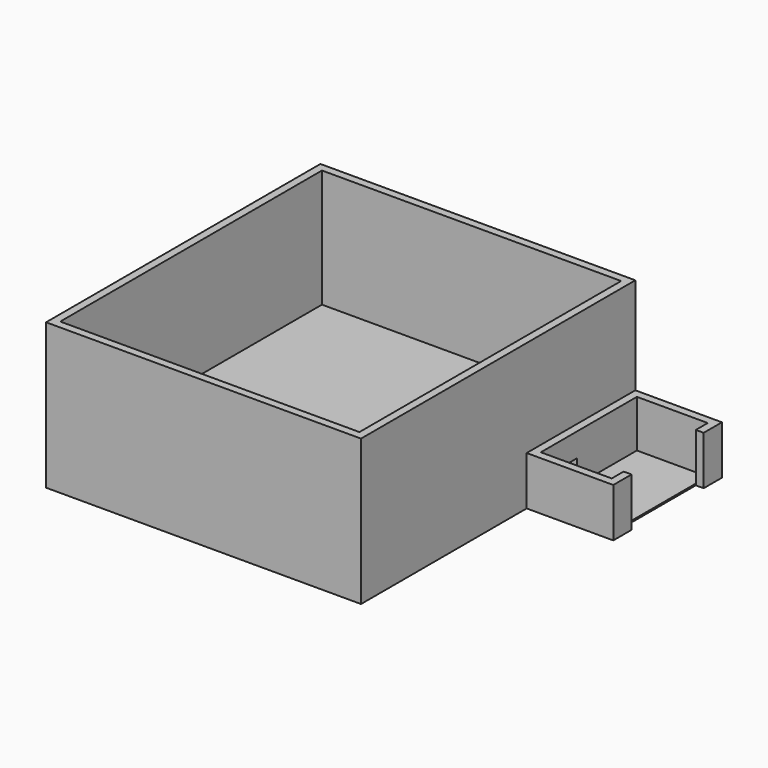
from build123d import *

# Parameters (mm, degrees)
F0_W      = 80
F0_H      = 87.1
F1_DEPTH  = 37
F2_W      = 76
F2_H      = 83.1
F3_DEPTH  = 30
F5_D      = 3.5
F6_W      = 34.5
F6_H      = 12.4
F7_DEPTH  = 22
F8_W      = 18
F8_H      = 30.5
F9_DEPTH  = 12
F10_W     = 11.415408
F10_H     = 6
F11_DEPTH = 4.60036
F12_W     = 34.5
F12_H     = 12.4
F13_DEPTH = 22
F14_W     = 18
F14_H     = 30.5
F15_DEPTH = 12
F16_W     = 11.5
F16_H     = 6
F17_DEPTH = 5
F19_W     = 22.9
F19_H     = 12.4
F20_DEPTH = 2
F18_W     = 22.9
F18_H     = 12.4
F21_DEPTH = 2


with BuildPart() as f1:
    # F0 (on Top) → F1 (new body)
    with BuildSketch(Plane.XY):
        Rectangle(F0_W, F0_H)
    extrude(amount=F1_DEPTH)

    # F2 (on face) → F3 (cut)
    with BuildSketch(Plane.XY.offset(37)):
        Rectangle(F2_W, F2_H)
    extrude(amount=-F3_DEPTH, mode=Mode.SUBTRACT)

    # F5 (through all)
    with Locations(Plane(origin=(0, 0, 0), x_dir=(1, 0, 0), z_dir=(0, 0, -1))):
        with Locations((-8.05, 30.2), (8.05, 30.2)):
            Hole(F5_D / 2)

    # F6 (on face) → F7 (join)
    with BuildSketch(Plane(origin=(-40, 0, 0), x_dir=(0, -1, 0), z_dir=(-1, 0, 0))):
        with Locations((-26.3, 6.2)):
            Rectangle(F6_W, F6_H)
    extrude(amount=F7_DEPTH)

    # F8 (on face) → F9 (cut)
    with BuildSketch(Plane.XY.offset(12.4)):
        with Locations((-51, 26.3)):
            Rectangle(F8_W, F8_H)
    extrude(amount=-F9_DEPTH, mode=Mode.SUBTRACT)

    # F10 (on face) → F11 (cut)
    with BuildSketch(Plane(origin=(-42, 0, 0), x_dir=(0, -1, 0), z_dir=(-1, 0, 0))):
        with Locations((-16.757704, 3.4)):
            Rectangle(F10_W, F10_H)
    extrude(amount=-F11_DEPTH, mode=Mode.SUBTRACT)

    # F12 (on face) → F13 (join)
    with BuildSketch(Plane.YZ.offset(40)):
        with Locations((26.3, 6.2)):
            Rectangle(F12_W, F12_H)
    extrude(amount=F13_DEPTH)

    # F14 (on face) → F15 (cut)
    with BuildSketch(Plane.XY.offset(12.4)):
        with Locations((51, 26.3)):
            Rectangle(F14_W, F14_H)
    extrude(amount=-F15_DEPTH, mode=Mode.SUBTRACT)

    # F16 (on face) → F17 (cut)
    with BuildSketch(Plane.YZ.offset(42)):
        with Locations((16.8, 3.4)):
            Rectangle(F16_W, F16_H)
    extrude(amount=-F17_DEPTH, mode=Mode.SUBTRACT)

    # F19 (on face) → F20 (cut)
    with BuildSketch(Plane(origin=(-62, 0, 0), x_dir=(0, -1, 0), z_dir=(-1, 0, 0))):
        with Locations((-26.3, 6.2)):
            Rectangle(F19_W, F19_H)
    extrude(amount=-F20_DEPTH, mode=Mode.SUBTRACT)

    # F18 (on face) → F21 (cut)
    with BuildSketch(Plane.YZ.offset(62)):
        with Locations((26.3, 6.2)):
            Rectangle(F18_W, F18_H)
    extrude(amount=-F21_DEPTH, mode=Mode.SUBTRACT)


solid = f1.part
